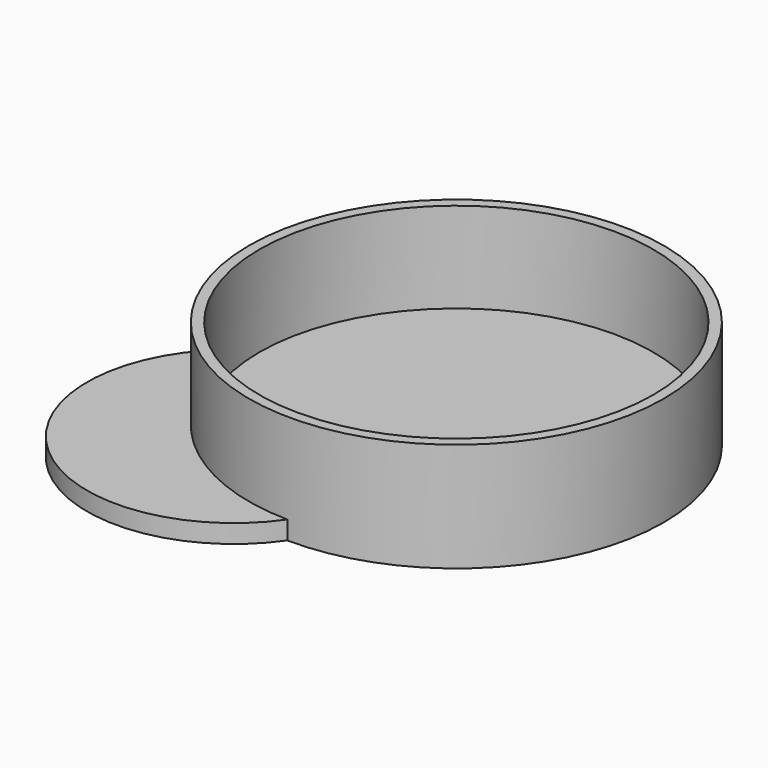
from build123d import *

# Parameters (mm, degrees)
F0_R     = 28.561798
F0_R_2   = 27.125766
F1_DEPTH = 15
F3_DEPTH = 2.54


with BuildPart() as f1:
    # F0 (on Top) → F1 (new body)
    with BuildSketch(Plane.XY):
        Circle(F0_R)
        Circle(F0_R_2, mode=Mode.SUBTRACT)
    extrude(amount=F1_DEPTH)

    # F2 (on Top) → F3 (join)
    with BuildSketch(Plane.XY):
        with BuildLine():
            ThreePointArc((0, -27.9126), (19.737189, -19.737189), (27.9126, 0))
            ThreePointArc((27.9126, 0), (0, 27.9126), (-27.9126, 0))
            ThreePointArc((-27.9126, 0), (-19.737189, -19.737189), (0, -27.9126))
        make_face()
        with BuildLine():
            ThreePointArc((0, -27.9126), (-19.737189, -19.737189), (-27.9126, 0))
            ThreePointArc((-27.9126, 0), (-31.324946, -31.324946), (0, -27.9126))
        make_face()
    extrude(amount=F3_DEPTH)


solid = f1.part
